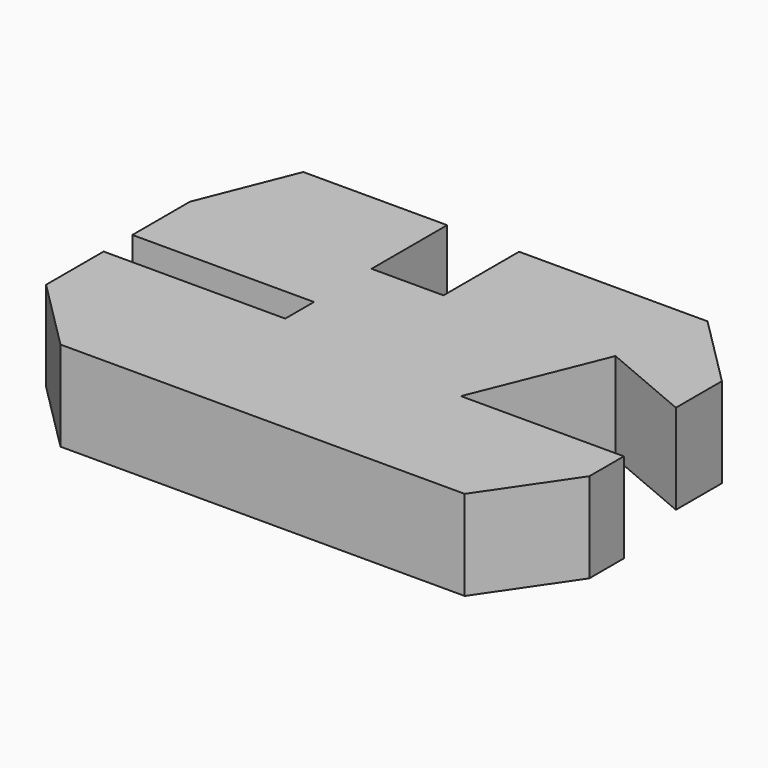
from build123d import *

# Parameters (mm, degrees)
F1_DEPTH = 25


with BuildPart() as f1:
    # F0 (on Top) → F1 (new body)
    with BuildSketch(Plane.XY):
        Polygon((-20, 60.914675), (-60, 60.914675), (-70.5, 34.634644), (-70.5, 14.634644), (-20, 14.634644), (-20, 4.634644), (-70.5, 4.634644), (-70.5, -15.365356), (-50.488878, -35.376478), (61.911122, -35.376478), (77.861993, -12), (77.861993, 0), (32.561993, 0), (46.984347, 35.696578), (72.411122, 24.903553), (72.411122, 40.903553), (52.4, 60.914675), (0, 60.914675), (0, 34.634644), (-20, 34.634644), align=None)
    extrude(amount=F1_DEPTH)


solid = f1.part
